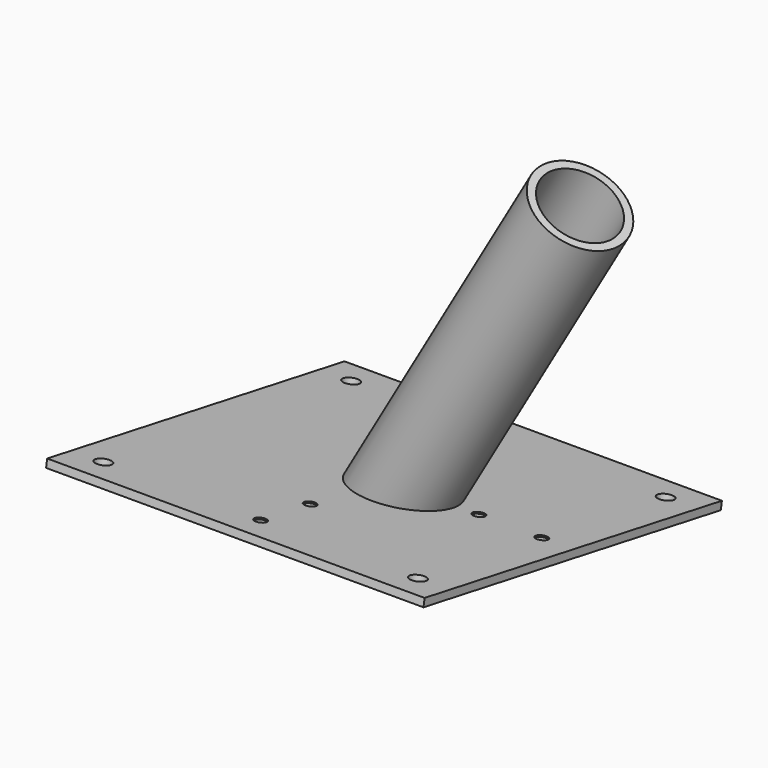
from build123d import *

# Parameters (mm, degrees)
F2_W          = 304.8
F2_H          = 304.8
F3_DEPTH      = 6.35
F5_R          = 36.5125
F5_R_2        = 30.1625
F6_DEPTH      = 292.1
F6_DEPTH_BACK = 15.24
F8_DEPTH      = 50.8
F8_DEPTH_BACK = 50.8
F9_R          = 4.7625
F10_DEPTH     = 1.27
F11_R         = 6.35
F12_DEPTH     = 25.4


with BuildPart() as f3:
    # F2 (on line) → F3 (new body)
    with BuildSketch(Plane(origin=(0, 0, 0), x_dir=(1, 0, 0), z_dir=(0, 0.1736481777, 0.984807753))):
        with Locations((-12.7, 0)):
            Rectangle(F2_W, F2_H)
    extrude(amount=F3_DEPTH)

    # F5 (on line) → F6 (join, two sides)
    with BuildSketch(Plane(origin=(0, 0, 0), x_dir=(0.8660254038, 0, -0.5), z_dir=(-0.5, 0, -0.8660254038))) as f6_sk:
        Circle(F5_R)
        Circle(F5_R_2, mode=Mode.SUBTRACT)
    extrude(amount=-F6_DEPTH)
    extrude(f6_sk.sketch, amount=F6_DEPTH_BACK)

    # F7 (on Right) → F8 (cut, two sides)
    with BuildSketch(Plane.YZ) as f8_sk:
        Polygon((47.014611039, -36.6175852823), (47.014611039, -8.2899444137), (-48.9987151589, 8.6397955026), (-48.9987151589, -36.6175852823), align=None)
    extrude(amount=-F8_DEPTH, mode=Mode.SUBTRACT)
    extrude(f8_sk.sketch, amount=F8_DEPTH_BACK, mode=Mode.SUBTRACT)

    # F9 (on face) → F10 (cut)
    with BuildSketch(Plane(origin=(0, 1.1026659282, 6.2535292316), x_dir=(1, 0, 0), z_dir=(0, 0.1736481777, 0.984807753))):
        with Locations((114.3, 0)):
            Circle(F9_R)
        with Locations((-12.7, -76.2)):
            Circle(F9_R)
        with Locations((63.5, 0)):
            Circle(F9_R)
        with Locations((-12.7, -127)):
            Circle(F9_R)
    extrude(amount=-F10_DEPTH, mode=Mode.SUBTRACT)

    # F11 (on face) → F12 (cut)
    with BuildSketch(Plane(origin=(0, 1.1026659282, 6.2535292316), x_dir=(1, 0, 0), z_dir=(0, 0.1736481777, 0.984807753))):
        with Locations((-139.7, 127)):
            Circle(F11_R)
        with Locations((114.3, 127)):
            Circle(F11_R)
        with Locations((114.3, -127)):
            Circle(F11_R)
        with Locations((-139.7, -127)):
            Circle(F11_R)
    extrude(amount=-F12_DEPTH, mode=Mode.SUBTRACT)


solid = f3.part
